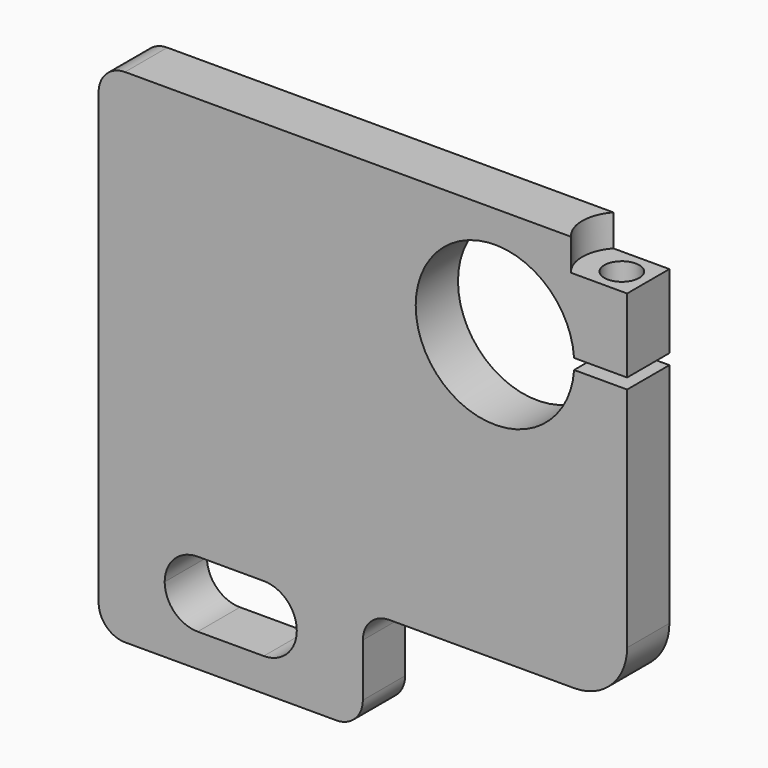
from build123d import *

# Parameters (mm, degrees)
F1_DEPTH        = 10
F2_R            = 10
F4_DEPTH        = 10.001
F5_R            = 5
F6_W            = 75
F6_H            = 10
F7_DEPTH        = 10
F9_DEPTH        = 20.001
F11_D           = 6.6
F11_DEPTH       = 20
F11_CBORE_D     = 15
F11_CBORE_DEPTH = 6


with BuildPart() as f1:
    # F0 (on Front) → F1 (new body)
    with BuildSketch(Plane.XZ):
        Polygon((0, 95), (0, 0), (50, 0), (50, 20), (100, 20), (100, 95), align=None)
    extrude(amount=F1_DEPTH)

    # F2
    f2_edges = [f1.edges().sort_by_distance(p)[0] for p in [
        (100, -5, 20),
    ]]
    fillet(f2_edges, radius=F2_R)

    # F3 (on face) → F4 (cut, through all)
    with BuildSketch(Plane.XZ.offset(10)):
        with BuildLine():
            ThreePointArc((12.5, 12.5), (14.330583, 8.080583), (18.75, 6.25))
            Line((18.75, 6.25), (31.25, 6.25))
            ThreePointArc((31.25, 6.25), (35.669417, 8.080583), (37.5, 12.5))
            ThreePointArc((37.5, 12.5), (35.669417, 16.919417), (31.25, 18.75))
            Line((31.25, 18.75), (18.75, 18.75))
            ThreePointArc((18.75, 18.75), (14.330583, 16.919417), (12.5, 12.5))
        make_face()
    extrude(amount=-F4_DEPTH, mode=Mode.SUBTRACT)

    # F5
    f5_edges = [f1.edges().sort_by_distance(p)[0] for p in [
        (50, -5, 20),
        (50, -5, 0),
        (0, -5, 0),
        (0, -5, 95),
    ]]
    fillet(f5_edges, radius=F5_R)

    # F6 (on face) → F7 (join)
    with BuildSketch(Plane(origin=(0, 0, 0), x_dir=(-1, 0, 0), z_dir=(0, 1, 0))):
        with Locations((-37.5, 30)):
            Rectangle(F6_W, F6_H)
    extrude(amount=F7_DEPTH)

    # F8 (on face) → F9 (cut, through all)
    with BuildSketch(Plane.XZ.offset(10)):
        with BuildLine():
            Line((100, 75), (89.96663, 75))
            ThreePointArc((89.96663, 75), (60, 74), (89.96663, 73))
            Line((89.96663, 73), (100, 73))
            Line((100, 73), (100, 75))
        make_face()
    extrude(amount=-F9_DEPTH, mode=Mode.SUBTRACT)

    # F11
    with Locations(Plane.XY.offset(95)):
        with Locations((95, -5)):
            CounterBoreHole(F11_D / 2, F11_CBORE_D / 2, F11_CBORE_DEPTH, depth=F11_DEPTH)


solid = f1.part
